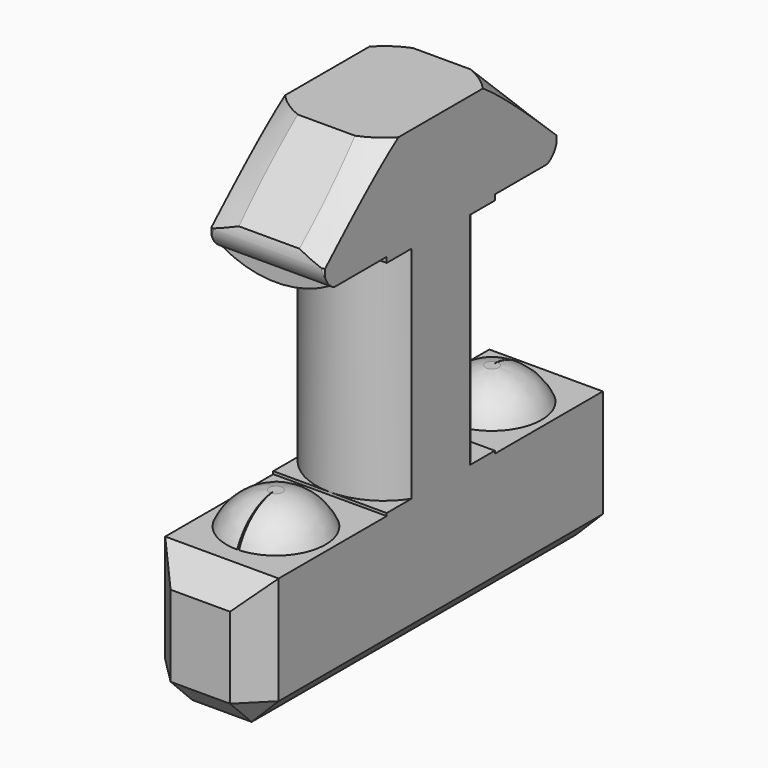
from build123d import *

# Parameters (mm, degrees)
PAD009_DEPTH            = 2.1
PAD010_DEPTH            = 5
SPHERE004_ANGLE         = 358
POLARPATTERN005_COUNT   = 2
CHAMFER004_SIZE         = 1
BODY007_PLACEMENT_ANGLE = 90


with BuildPart() as part:
    # Sketch018 → Pad009 (new body, symmetric)
    with BuildSketch(Plane.XZ):
        with BuildLine():
            Line((-2.5, 2.2), (-4.939896, 2.2))
            ThreePointArc((-5.191566, 3.479599), (-5.374996, 2.778974), (-4.939896, 2.2))
            Line((-5.191566, 3.479599), (-2.665718, 5.8764))
            Line((-2.665718, 5.8764), (2.665718, 5.8764))
            Line((2.665718, 5.8764), (5.312973, 3.290565))
            ThreePointArc((4.939896, 2.2), (5.345843, 2.670224), (5.312973, 3.290565))
            Line((2.5, 2.2), (4.939896, 2.2))
            Line((2.5, -6.25), (2.5, 2.2))
            Line((8.5, -6.25), (2.5, -6.25))
            Line((8.5, -11.25), (8.5, -6.25))
            Line((-8.5, -11.25), (8.5, -11.25))
            Line((-8.5, -6.25), (-8.5, -11.25))
            Line((-2.5, -6.25), (-8.5, -6.25))
            Line((-2.5, 2.2), (-2.5, -6.25))
        make_face()
    extrude(amount=PAD009_DEPTH, both=True)

    # Sketch020 → Pad010 (join, symmetric)
    with BuildSketch(Plane.YZ):
        with BuildLine():
            ThreePointArc((-2.1, 2.295591), (0, 1.7), (2.1, 2.295591))
            Line((-2.1, 2.295591), (2.1, 2.295591))
        make_face()
    extrude(amount=PAD010_DEPTH, both=True)

    # Sketch019 → Groove003 (revolve, cut)
    with BuildSketch(Plane.XZ):
        Polygon((0, 6.35), (2.4, 6.35), (5.75, 2.967063), (5.75, 1.6), (3.3, 1.6), (3.3, 2), (2.5, 2), (2.5, -6.15), (6.851086, -6.15), (6.851086, 7.663991), (0, 7.663991), align=None)
    revolve(axis=Axis((0, 0, 0), (0, 0, 1)), mode=Mode.SUBTRACT)

    # Sphere004 → Sphere004 (revolve)
    with BuildSketch(Plane(origin=(5, 0, -7.05), x_dir=(0.999848, 0.017452, 0), z_dir=(-0.017452, 0.999848, 0))):
        with BuildLine():
            ThreePointArc((0.243739, -1.985092), (1.99627, 0.122097), (0, 2))
            Line((0, 2), (0, -1.985092))
            Line((0, -1.985092), (0.243739, -1.985092))
        make_face()
    sphere004 = revolve(axis=Axis((5, 0, -7.05), (0, 0, -1)), revolution_arc=SPHERE004_ANGLE)

    # PolarPattern005: Sphere004 ×2 about axis
    polarpattern005_axis = Axis((0, 0, 0), (0, 0, 1))
    for i in range(1, POLARPATTERN005_COUNT):
        add(sphere004.rotate(polarpattern005_axis, i * 360 / POLARPATTERN005_COUNT))

    # Chamfer004
    chamfer004_edges = [part.edges().sort_by_distance(p)[0] for p in [
        (-8.5, 0, -11.25),
        (8.5, 0, -11.25),
        (0, 2.1, -11.25),
        (0, -2.1, -11.25),
        (-8.5, 0, -6.25),
        (-8.5, 2.1, -8.75),
        (-8.5, -2.1, -8.75),
        (8.5, 0, -6.25),
        (8.5, 2.1, -8.75),
        (8.5, -2.1, -8.75),
    ]]
    chamfer(chamfer004_edges, length=CHAMFER004_SIZE)


with BuildPart() as part_1:
    # Body007 placement: moved
    add(part.part.moved(Location((0, 0, -10))).rotate(Axis((0, 0, -10), (0, 0, -1)), BODY007_PLACEMENT_ANGLE))


solid = part_1.part
